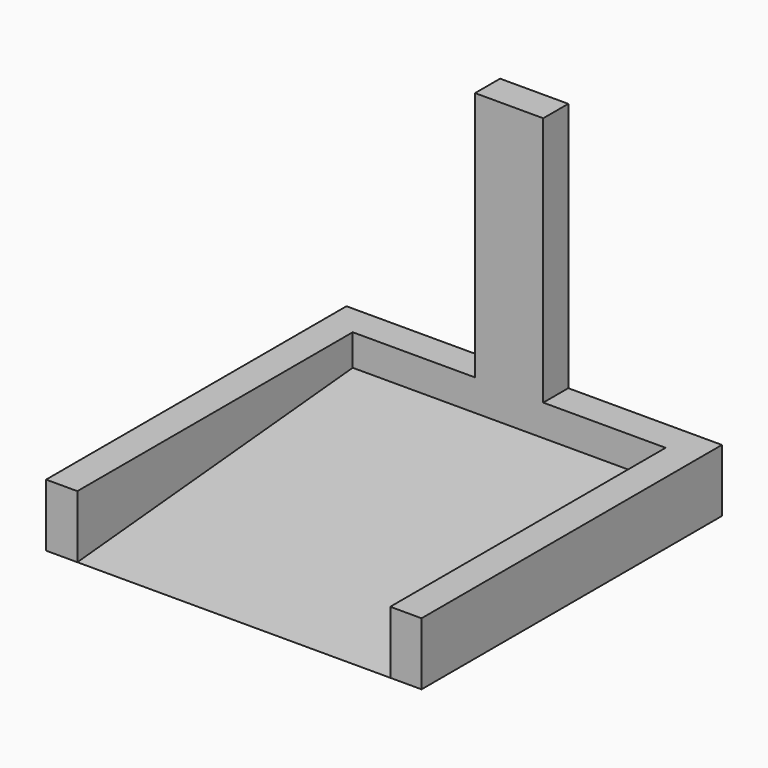
from build123d import *

# Parameters (mm, degrees)
F1_DEPTH = 12.7
F3_DEPTH = 63.5
F4_W     = 13.838368
F4_H     = 6.35
F5_DEPTH = 50.8


with BuildPart() as f1:
    # F0 (on Top) → F1 (new body)
    with BuildSketch(Plane.XY):
        Polygon((0, -76.2), (0, 0), (-76.2, 0), (-76.2, -76.2), (-69.85, -76.2), (-69.85, -6.35), (-38.1, -6.35), (-6.35, -6.35), (-6.35, -38.1), (-6.35, -76.2), align=None)
    extrude(amount=F1_DEPTH)

    # F2 (on face) → F3 (join)
    with BuildSketch(Plane.YZ.offset(-69.85)):
        Polygon((-76.2, 0), (-6.35, 0), (-6.35, 6.35), align=None)
    extrude(amount=F3_DEPTH)

    # F4 (on face) → F5 (join)
    with BuildSketch(Plane.XY.offset(12.7)):
        with Locations((-38.1, -3.175)):
            Rectangle(F4_W, F4_H)
    extrude(amount=F5_DEPTH)


solid = f1.part
